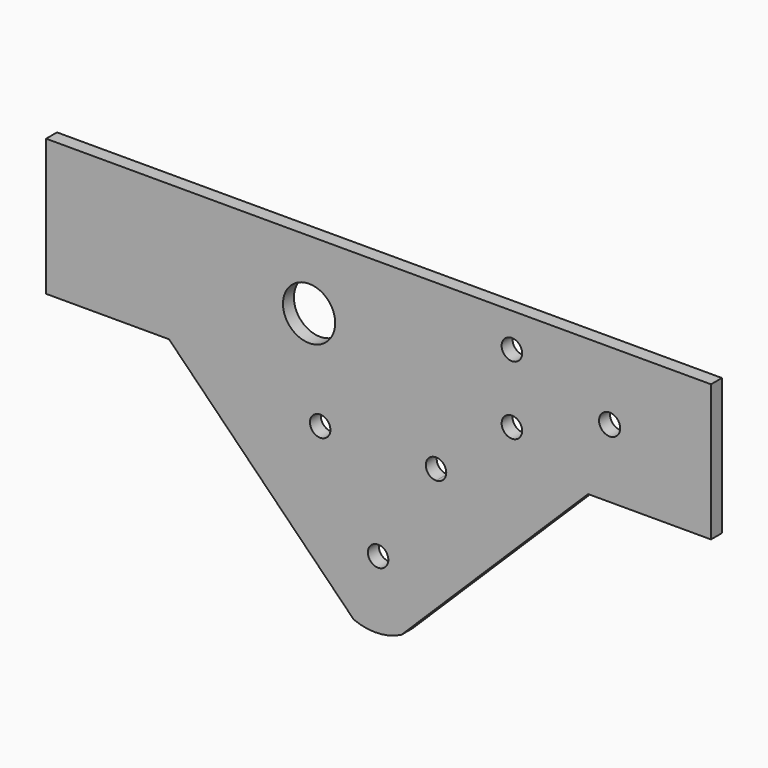
from build123d import *

# Parameters (mm, degrees)
F0_R     = 9.525
F0_R_2   = 24.281079
F0_R_3   = 9.831352
F1_DEPTH = 12.7


with BuildPart() as f1:
    # F0 (on Front) → F1 (new body)
    with BuildSketch(Plane.XZ):
        with BuildLine():
            Line((-308.675736, 182.516785), (-308.675736, 55.516785))
            Line((-308.675736, 55.516785), (-194.375736, 55.516785))
            Line((-194.375736, 55.516785), (-158.488057, 19.238039))
            Line((-158.488057, 19.238039), (-22.676105, -118.053854))
            ThreePointArc((-22.676105, -118.053854), (-0.30253, -121.93622), (21.652907, -116.138945))
            Line((21.652907, -116.138945), (195.179168, 55.516785))
            Line((195.179168, 55.516785), (309.479168, 55.516785))
            Line((309.479168, 55.516785), (309.479168, 182.516785))
            Line((309.479168, 182.516785), (-308.675736, 182.516785))
        make_face()
        with Locations((-53.848, 30.116785)):
            Circle(F0_R, mode=Mode.SUBTRACT)
        with Locations((0, -58.783215)):
            Circle(F0_R, mode=Mode.SUBTRACT)
        with BuildLine():
            ThreePointArc((53.848, 20.591785), (47.112808, 36.851977), (63.373, 30.116785))
            ThreePointArc((63.373, 30.116785), (60.583192, 23.381593), (53.848, 20.591785))
        make_face(mode=Mode.SUBTRACT)
        with Locations((-64.168158, 119.016785)):
            Circle(F0_R_2, mode=Mode.SUBTRACT)
        with Locations((124.374732, 87.266785)):
            Circle(F0_R, mode=Mode.SUBTRACT)
        with Locations((124.374732, 150.766785)):
            Circle(F0_R, mode=Mode.SUBTRACT)
        with Locations((215.231842, 119.016785)):
            Circle(F0_R_3, mode=Mode.SUBTRACT)
    extrude(amount=F1_DEPTH)


solid = f1.part
